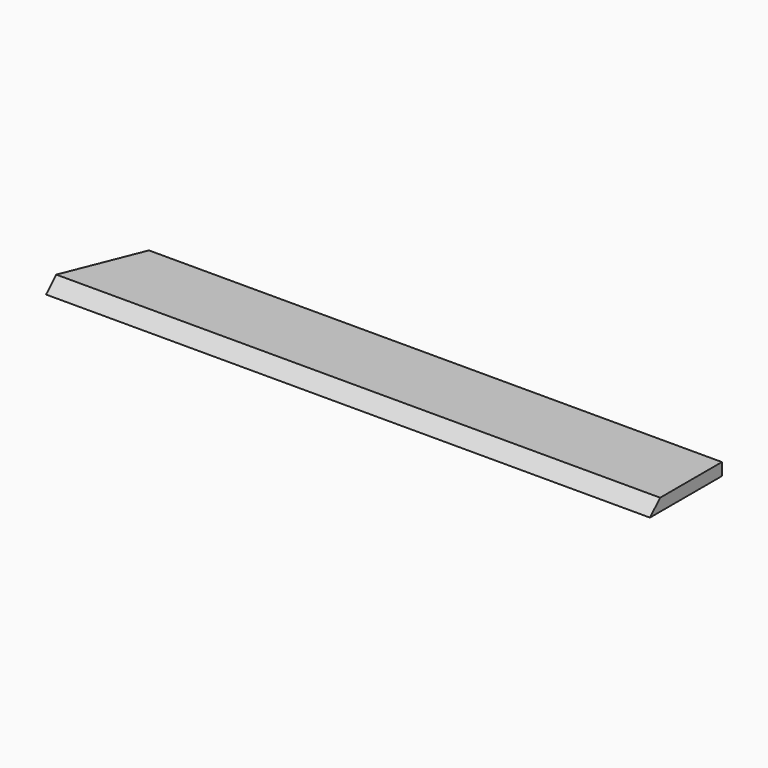
from build123d import *

# Parameters (mm, degrees)
F1_DEPTH = 2.032
F3_DEPTH = 99.352875


with BuildPart() as f1:
    # F0 (on Top) → F1 (new body)
    with BuildSketch(Plane.XY):
        Polygon((49.6764375, -6.35), (49.6764375, 6.35), (-44.5964375, 6.35), (-49.6764375, -6.35), align=None)
    extrude(amount=F1_DEPTH)

    # F2 (on face) → F3 (join, through all)
    with BuildSketch(Plane.YZ.offset(49.6764375)):
        Polygon((-6.35, 0), (-6.35, 2.032), (-8.4541975976, 0), align=None)
    extrude(amount=-F3_DEPTH)


solid = f1.part
